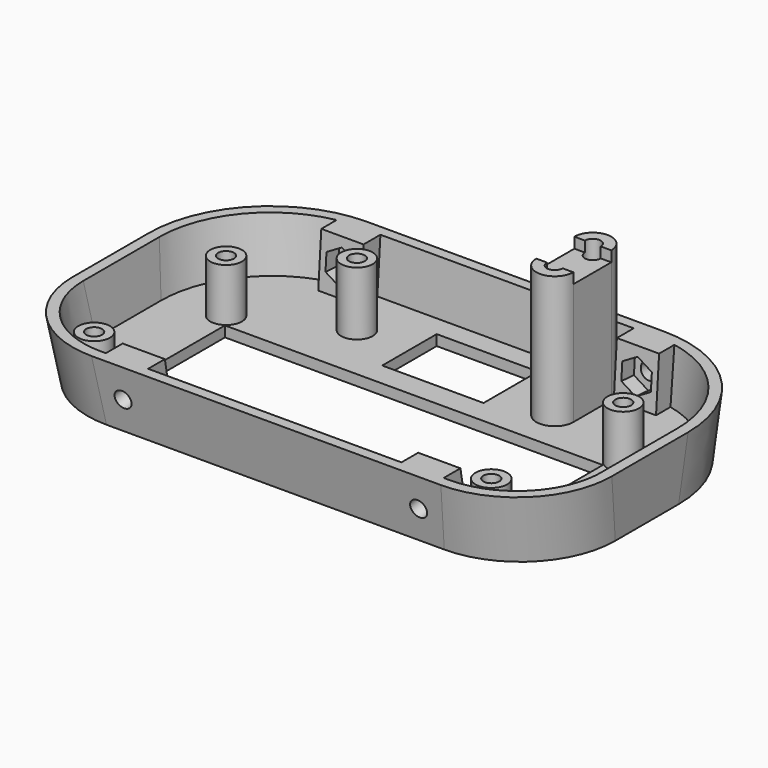
from build123d import *

# Parameters (mm, degrees)
THICKNESS_T     = -2
SKETCH002_W     = 110
SKETCH002_H     = 45
POCKET_DEPTH    = 72.0010001
PAD_DEPTH       = 4
PAD001_DEPTH    = 4
SKETCH005_R     = 1.6
POCKET001_DEPTH = 8.0508448353
POCKET002_DEPTH = 3
SKETCH006_R     = 1.6
POCKET003_DEPTH = 6.8556233581
POCKET004_DEPTH = 3
SKETCH009_W     = 71.6
SKETCH009_H     = 24.3
POCKET005_DEPTH = 12.0010001
SKETCH014_R     = 3
SKETCH014_R_2   = 1.5
PAD004_DEPTH    = 10
SKETCH010_W     = 19.2
SKETCH010_H     = 12.9
POCKET006_DEPTH = 12.0010001
SKETCH011_R     = 1.5
PAD002_DEPTH    = 25
SKETCH012_W     = 9
SKETCH012_H     = 2
POCKET007_DEPTH = 74.8919091909
SKETCH013_R     = 3
SKETCH013_R_2   = 1.5
PAD003_DEPTH    = 12


with BuildPart() as part:
    # Sketch → AdditiveLoft section 0
    with BuildSketch(Plane.XY):
        with BuildLine():
            Line((-27, 68), (27, 68))
            ThreePointArc((50, 45), (43.2634559673, 61.2634559673), (27, 68))
            Line((50, 45), (50, 30))
            ThreePointArc((32, 12), (44.7279220614, 17.2720779386), (50, 30))
            Line((32, 12), (-32, 12))
            ThreePointArc((-50, 30), (-44.7279220614, 17.2720779386), (-32, 12))
            Line((-50, 30), (-50, 45))
            ThreePointArc((-27, 68), (-43.2634559673, 61.2634559673), (-50, 45))
        make_face()
    # Sketch001 → AdditiveLoft section 1
    with BuildSketch(Plane.XY.offset(55)):
        with BuildLine():
            Line((-32, 72), (32, 72))
            ThreePointArc((55, 49), (48.2634559673, 65.2634559673), (32, 72))
            Line((55, 49), (55, 20))
            ThreePointArc((37, 2), (49.7279220614, 7.2720779386), (55, 20))
            Line((37, 2), (-37, 2))
            ThreePointArc((-55, 20), (-49.7279220614, 7.2720779386), (-37, 2))
            Line((-55, 20), (-55, 49))
            ThreePointArc((-32, 72), (-48.2634559673, 65.2634559673), (-55, 49))
        make_face()
    loft()

    # Thickness
    thickness_openings = [part.faces().sort_by_distance(p)[0] for p in [
        (0, 36.662908, 55),
    ]]
    offset(amount=THICKNESS_T, openings=thickness_openings)

    # Sketch002 → Pocket (cut, through all)
    with BuildSketch(Plane.XZ):
        with Locations((0, 34.5)):
            Rectangle(SKETCH002_W, SKETCH002_H)
    extrude(amount=-POCKET_DEPTH, mode=Mode.SUBTRACT)

    # Sketch003 → Pad (join, symmetric)
    with BuildSketch(Plane.YZ.offset(28)):
        Polygon((13.6363636364, 2), (11.8181818182, 12), (15.8181818182, 12), (17.6363636364, 2), align=None)
        Polygon((62.1454545455, 2), (62.8727272727, 12), (66.8727272727, 12), (66.1454545455, 2), align=None)
    extrude(amount=PAD_DEPTH, both=True)

    # Sketch004 → Pad001 (join, symmetric)
    with BuildSketch(Plane.YZ.offset(-28)):
        Polygon((13.6363636364, 2), (11.8181818182, 12), (15.8181818182, 12), (17.6363636364, 2), align=None)
        Polygon((62.8727272727, 12), (66.8727272727, 12), (66.1454545455, 2), (62.1454545455, 2), align=None)
    extrude(amount=PAD001_DEPTH, both=True)

    # Sketch005 (on DatumPlane) → Pocket001 (cut, through all)
    with BuildSketch(Plane(origin=(0, 18, 0), x_dir=(-1, 0, 0), z_dir=(0, 0.9838699101, 0.1788854382))):
        with Locations((-28, 7.1147617466)):
            Circle(SKETCH005_R)
        with Locations((28, 7.1147617466)):
            Circle(SKETCH005_R)
    extrude(amount=-POCKET001_DEPTH, mode=Mode.SUBTRACT)

    # Sketch007 (on DatumPlane) → Pocket002 (cut)
    with BuildSketch(Plane(origin=(0, 18, 0), x_dir=(-1, 0, 0), z_dir=(0, 0.9838699101, 0.1788854382))):
        Polygon((-25.2, 5.4981809929), (-25.2, 8.7313425003), (-28, 10.3479232541), (-30.8, 8.7313425003), (-30.8, 5.4981809929), (-28, 3.8816002391), align=None)
        Polygon((28, 10.3479232541), (25.2, 8.7313425003), (25.2, 5.4981809929), (28, 3.8816002391), (30.8, 5.4981809929), (30.8, 8.7313425003), align=None)
    extrude(amount=-POCKET002_DEPTH, mode=Mode.SUBTRACT)

    # Sketch006 (on DatumPlane) → Pocket003 (cut, through all)
    with BuildSketch(Plane(origin=(0, 62, 0), x_dir=(1, 0, 0), z_dir=(0, -0.997365817, 0.0725356958))):
        with Locations((28.0243651118, 7.0326465046)):
            Circle(SKETCH006_R)
        with Locations((-28.0243651118, 7.0326465046)):
            Circle(SKETCH006_R)
    extrude(amount=-POCKET003_DEPTH, mode=Mode.SUBTRACT)

    # Sketch008 (on DatumPlane) → Pocket004 (cut)
    with BuildSketch(Plane(origin=(0, 62, 0), x_dir=(1, 0, 0), z_dir=(0, -0.997365817, 0.0725356958))):
        Polygon((-28.0243651118, 10.265808012), (-30.8243651118, 8.6492272583), (-30.8243651118, 5.4160657508), (-28.0243651118, 3.7994849971), (-25.2243651118, 5.4160657508), (-25.2243651118, 8.6492272583), align=None)
        Polygon((28.0243651118, 10.265808012), (25.2243651118, 8.6492272583), (25.2243651118, 5.4160657508), (28.0243651118, 3.7994849971), (30.8243651118, 5.4160657508), (30.8243651118, 8.6492272583), align=None)
    extrude(amount=-POCKET004_DEPTH, mode=Mode.SUBTRACT)

    # Sketch009 → Pocket005 (cut, through all)
    with BuildSketch(Plane.XY):
        with Locations((0, 32.65)):
            Rectangle(SKETCH009_W, SKETCH009_H)
    extrude(amount=POCKET005_DEPTH, mode=Mode.SUBTRACT)

    # Sketch014 → Pad004 (join)
    with BuildSketch(Plane.XY.offset(2)):
        with Locations((37.625, 47.35)):
            Circle(SKETCH014_R)
        with Locations((37.625, 47.35)):
            Circle(SKETCH014_R_2, mode=Mode.SUBTRACT)
        with Locations((37.625, 16.1)):
            Circle(SKETCH014_R)
        with Locations((37.625, 16.1)):
            Circle(SKETCH014_R_2, mode=Mode.SUBTRACT)
        with Locations((-37.625, 16.1)):
            Circle(SKETCH014_R)
        with Locations((-37.625, 16.1)):
            Circle(SKETCH014_R_2, mode=Mode.SUBTRACT)
        with Locations((-37.625, 47.35)):
            Circle(SKETCH014_R)
        with Locations((-37.625, 47.35)):
            Circle(SKETCH014_R_2, mode=Mode.SUBTRACT)
    extrude(amount=PAD004_DEPTH)

    # Sketch010 → Pocket006 (cut, through all)
    with BuildSketch(Plane.XY):
        with Locations((0, 55.75)):
            Rectangle(SKETCH010_W, SKETCH010_H)
    extrude(amount=POCKET006_DEPTH, mode=Mode.SUBTRACT)

    # Sketch011 → Pad002 (join)
    with BuildSketch(Plane.XY.offset(2)):
        with BuildLine():
            ThreePointArc((23.8, 61.8), (20.3, 65.3), (16.8, 61.8))
            Line((16.8, 61.8), (16.8, 52.8))
            ThreePointArc((16.8, 52.8), (20.3, 49.3), (23.8, 52.8))
            Line((23.8, 61.8), (23.8, 52.8))
        make_face()
        with Locations((20.3, 52.8)):
            Circle(SKETCH011_R, mode=Mode.SUBTRACT)
        with Locations((20.3, 61.8)):
            Circle(SKETCH011_R, mode=Mode.SUBTRACT)
    extrude(amount=PAD002_DEPTH)

    # Sketch012 → Pocket007 (cut, through all)
    with BuildSketch(Plane.YZ.offset(23.8)):
        with Locations((57.3, 26)):
            Rectangle(SKETCH012_W, SKETCH012_H)
    extrude(amount=-POCKET007_DEPTH, mode=Mode.SUBTRACT)

    # Sketch013 → Pad003 (join)
    with BuildSketch(Plane.XY.offset(2)):
        with Locations((-19.6, 55.8)):
            Circle(SKETCH013_R)
        with Locations((-19.6, 55.8)):
            Circle(SKETCH013_R_2, mode=Mode.SUBTRACT)
    extrude(amount=PAD003_DEPTH)


solid = part.part
